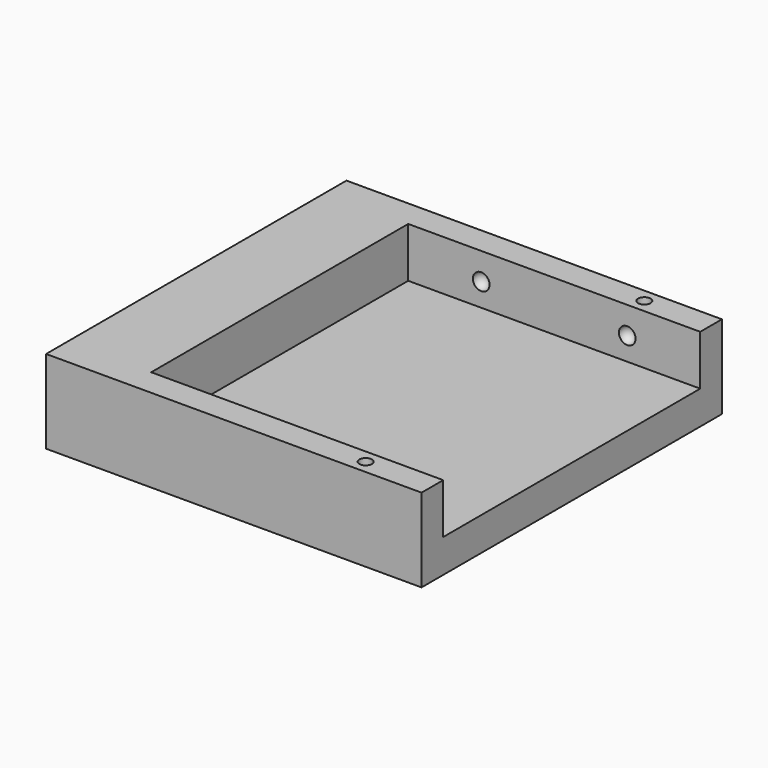
from build123d import *

# Parameters (mm, degrees)
F0_W      = 90
F0_H      = 90
F1_DEPTH  = 20
F2_W      = 70
F2_H      = 77
F3_DEPTH  = 12
F12_R     = 1.5
F13_DEPTH = 25


with BuildPart() as f1:
    # F0 (on Top) → F1 (new body)
    with BuildSketch(Plane.XY):
        with Locations((-24.827586, 0)):
            Rectangle(F0_W, F0_H)
    extrude(amount=F1_DEPTH)

    # F2 (on face) → F3 (cut)
    with BuildSketch(Plane.XY.offset(20)):
        with Locations((-14.827586, 0)):
            Rectangle(F2_W, F2_H)
    extrude(amount=-F3_DEPTH, mode=Mode.SUBTRACT)

    # F4 (on face) → F5 (revolve, cut)
    with BuildSketch(Plane(origin=(0, -38.5, 0), x_dir=(-1, 0, 0), z_dir=(0, 1, 0))):
        with BuildLine():
            Line((32.327586, 11.5), (32.327586, 15.5))
            ThreePointArc((32.327586, 15.5), (30.327586, 13.5), (32.327586, 11.5))
        make_face()
    revolve(axis=Axis((-32.327586, -38.5, 13.5), (0, 0, 1)), mode=Mode.SUBTRACT)

    # F6 (on face) → F7 (revolve, cut)
    with BuildSketch(Plane(origin=(0, -38.5, 0), x_dir=(-1, 0, 0), z_dir=(0, 1, 0))):
        with BuildLine():
            Line((-2.672414, 11.5), (-2.672414, 15.5))
            ThreePointArc((-2.672414, 15.5), (-4.672414, 13.5), (-2.672414, 11.5))
        make_face()
    revolve(axis=Axis((2.672414, -38.5, 13.5), (0, 0, 1)), mode=Mode.SUBTRACT)

    # F8 (on face) → F9 (revolve, cut)
    with BuildSketch(Plane.XZ.offset(-38.5)):
        with BuildLine():
            Line((2.672414, 15.5), (2.672414, 11.5))
            ThreePointArc((2.672414, 11.5), (4.672414, 13.5), (2.672414, 15.5))
        make_face()
    revolve(axis=Axis((2.672414, 38.5, 13.5), (0, 0, 1)), mode=Mode.SUBTRACT)

    # F10 (on face) → F11 (revolve, cut)
    with BuildSketch(Plane.XZ.offset(-38.5)):
        with BuildLine():
            Line((-32.327586, 11.5), (-32.327586, 15.5))
            ThreePointArc((-32.327586, 15.5), (-34.327586, 13.5), (-32.327586, 11.5))
        make_face()
    revolve(axis=Axis((-32.327586, 38.5, 13.5), (0, 0, 1)), mode=Mode.SUBTRACT)

    # F12 (on face) → F13 (cut)
    with BuildSketch(Plane.XY.offset(20)):
        with Locations((4.172414, -41.75)):
            Circle(F12_R)
        with Locations((4.172414, 41.75)):
            Circle(F12_R)
    extrude(amount=-F13_DEPTH, mode=Mode.SUBTRACT)


solid = f1.part
